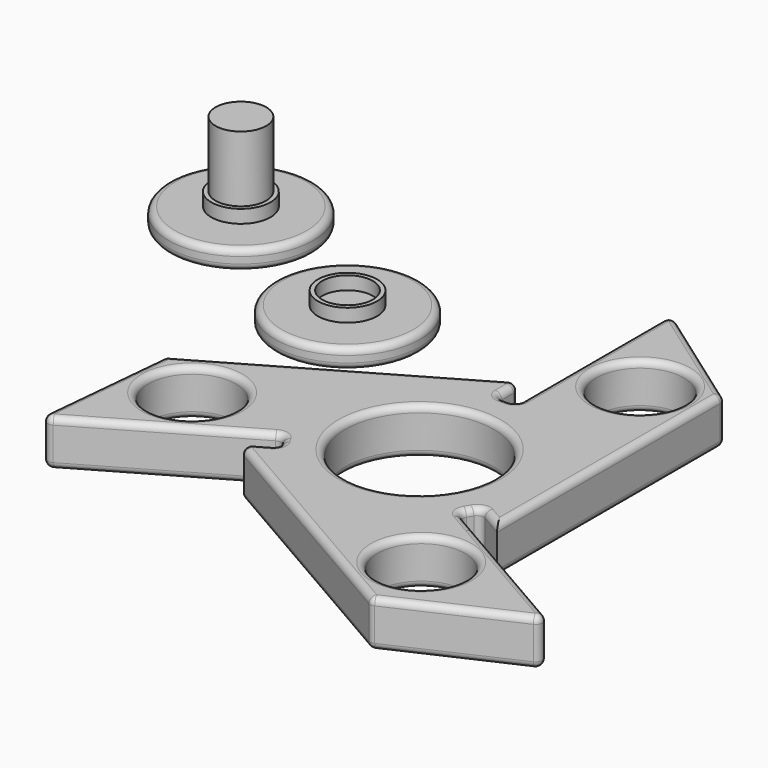
from build123d import *

# Parameters (mm, degrees)
F0_R      = 6.65
F0_R_2    = 11.3
F1_DEPTH  = 7
F2_R      = 1
F0_R_3    = 11
F3_DEPTH  = 3
F4_R      = 4.5
F5_DEPTH  = 2
F6_R      = 3.85
F7_DEPTH  = 10
F8_R      = 4.5
F9_DEPTH  = 2
F10_R     = 3.85
F11_DEPTH = 2
F12_R     = 1
F12_2_R   = 1


with BuildPart() as f1:
    # F0 (on Top) → F1 (new body)
    with BuildSketch(Plane.XY):
        with BuildLine():
            Line((17.8103764897, -12.0148764683), (13.4802494708, -9.5148764683))
            ThreePointArc((13.4802494708, -9.5148764683), (0, -16.5), (-13.4802494708, -9.5148764683))
            Line((-13.4802494708, -9.5148764683), (-17.8103764897, -12.0148764683))
            Line((-17.8103764897, -12.0148764683), (19.3103764897, -33.4465531934))
            Line((19.3103764897, -33.4465531934), (39.1935332496, -24.3604477797))
            Line((39.1935332496, -24.3604477797), (17.8103764897, -12.0148764683))
        make_face()
        with Locations((18.2436092626, -22.484103291)):
            Circle(F0_R, mode=Mode.SUBTRACT)
        with BuildLine():
            ThreePointArc((-14.9802494708, -6.9168002569), (-14.2894191624, 8.25), (-1.5, 16.4316767252))
            Line((-1.5, 16.4316767252), (-1.5, 21.4316767252))
            Line((-1.5, 21.4316767252), (-38.6207529794, 0))
            Line((-38.6207529794, 0), (-40.6935332496, -21.7623715684))
            Line((-40.6935332496, -21.7623715684), (-19.3103764897, -9.4168002569))
            Line((-19.3103764897, -9.4168002569), (-14.9802494708, -6.9168002569))
        make_face()
        with Locations((-30.1751954546, -5.4705066464)):
            Circle(F0_R, mode=Mode.SUBTRACT)
        with BuildLine():
            ThreePointArc((1.5, 16.4316767252), (12.186057607, 11.1242977306), (16.5, 0))
            ThreePointArc((16.5, 0), (16.1155843249, -3.5408956305), (14.9802494708, -6.9168002569))
            Line((14.9802494708, -6.9168002569), (19.3103764897, -9.4168002569))
            Line((19.3103764897, -9.4168002569), (19.3103764897, 33.4465531934))
            Line((19.3103764897, 33.4465531934), (1.5, 46.1228193481))
            Line((1.5, 46.1228193481), (1.5, 21.4316767252))
            Line((1.5, 21.4316767252), (1.5, 16.4316767252))
        make_face()
        with Locations((10.35, 28.9434995502)):
            Circle(F0_R, mode=Mode.SUBTRACT)
        with BuildLine():
            ThreePointArc((14.9802494708, -6.9168002569), (16.1155843249, -3.5408956305), (16.5, 0))
            ThreePointArc((16.5, 0), (12.186057607, 11.1242977306), (1.5, 16.4316767252))
            ThreePointArc((1.5, 16.4316767252), (0, 16.5), (-1.5, 16.4316767252))
            ThreePointArc((-1.5, 16.4316767252), (-14.2894191624, 8.25), (-14.9802494708, -6.9168002569))
            ThreePointArc((-14.9802494708, -6.9168002569), (-14.2894191624, -8.25), (-13.4802494708, -9.5148764683))
            ThreePointArc((-13.4802494708, -9.5148764683), (0, -16.5), (13.4802494708, -9.5148764683))
            ThreePointArc((13.4802494708, -9.5148764683), (14.2894191624, -8.25), (14.9802494708, -6.9168002569))
        make_face()
        Circle(F0_R_2, mode=Mode.SUBTRACT)
    extrude(amount=F1_DEPTH)

    # F2
    f2_edges = [f1.edges().sort_by_distance(p)[0] for p in [
        (19.310376, 12.014876, 7),
        (10.405188, 39.784686, 7),
        (1.5, 31.277248, 7),
        (-20.060376, 10.715838, 7),
        (-1.5, 18.931677, 7),
        (0, 16.5, 7),
        (-39.657143, -10.881186, 7),
        (-27.836891, -14.339586, 7),
        (-14.289419, -8.25, 7),
        (-15.645313, -10.764876, 7),
        (0.75, -22.730715, 7),
        (29.251955, -28.9035, 7),
        (26.336891, -16.937662, 7),
        (17.145313, -8.1668, 7),
        (29.251955, -28.9035, 0),
        (0.75, -22.730715, 0),
        (19.310376, -33.446553, 3.5),
        (39.193533, -24.360448, 3.5),
        (-17.810376, -12.014876, 3.5),
        (-14.980249, -6.9168, 3.5),
        (-13.480249, -9.514876, 3.5),
        (-27.836891, -14.339586, 0),
        (-40.693533, -21.762372, 3.5),
        (-39.657143, -10.881186, 0),
        (-38.620753, 0, 3.5),
        (-20.060376, 10.715838, 0),
        (-1.5, 21.431677, 3.5),
        (-1.5, 16.431677, 3.5),
        (1.5, 16.431677, 3.5),
        (1.5, 31.277248, 0),
        (1.5, 46.122819, 3.5),
        (10.405188, 39.784686, 0),
        (19.310376, 33.446553, 3.5),
        (19.310376, 12.014876, 0),
        (13.480249, -9.514876, 3.5),
        (26.336891, -16.937662, 0),
        (14.980249, -6.9168, 3.5),
        (17.145313, -8.1668, 0),
        (14.289419, -8.25, 0),
        (14.289419, -8.25, 7),
        (-1.5, 18.931677, 0),
        (0, 16.5, 0),
        (-14.289419, -8.25, 0),
        (-15.645313, -10.764876, 0),
        (-11.3, 0, 7),
        (11.593609, -22.484103, 7),
        (11.593609, -22.484103, 0),
        (-36.825195, -5.470507, 7),
        (-36.825195, -5.470507, 0),
        (3.7, 28.9435, 0),
        (3.7, 28.9435, 7),
        (-11.3, 0, 0),
    ]]
    fillet(f2_edges, radius=F2_R)


with BuildPart() as f3:
    # F0 (on Top) → F3 (new body)
    with BuildSketch(Plane.XY):
        with Locations((-34.6061885357, 29.5779034495)):
            Circle(F0_R_3)
    extrude(amount=F3_DEPTH)

    # F8 (on face) → F9 (join)
    with BuildSketch(Plane.XY.offset(3)):
        with Locations((-34.6061885357, 29.5779034495)):
            Circle(F8_R)
    extrude(amount=F9_DEPTH)

    # F10 (on face) → F11 (cut)
    with BuildSketch(Plane.XY.offset(5)):
        with Locations((-34.6061885357, 29.5779034495)):
            Circle(F10_R)
    extrude(amount=-F11_DEPTH, mode=Mode.SUBTRACT)

    # F12#2
    f12_2_edges = [f3.edges().sort_by_distance(p)[0] for p in [
        (-45.606189, 29.577903, 0),
        (-45.606189, 29.577903, 3),
    ]]
    fillet(f12_2_edges, radius=F12_2_R)


with BuildPart() as f3b:
    # F0 (on Top) → F3, piece 2 (new body)
    with BuildSketch(Plane.XY):
        with Locations((-60.3585578501, 41.5210314095)):
            Circle(F0_R_3)
    extrude(amount=F3_DEPTH)

    # F4 (on face) → F5 (join)
    with BuildSketch(Plane.XY.offset(3)):
        with Locations((-60.3585578501, 41.5210314095)):
            Circle(F4_R)
    extrude(amount=F5_DEPTH)

    # F6 (on face) → F7 (join)
    with BuildSketch(Plane.XY.offset(5)):
        with Locations((-60.3585578501, 41.5210314095)):
            Circle(F6_R)
    extrude(amount=F7_DEPTH)

    # F12
    f12_edges = [f3b.edges().sort_by_distance(p)[0] for p in [
        (-71.358558, 41.521031, 0),
        (-71.358558, 41.521031, 3),
    ]]
    fillet(f12_edges, radius=F12_R)


solid = Compound([f1.part, f3.part, f3b.part])
